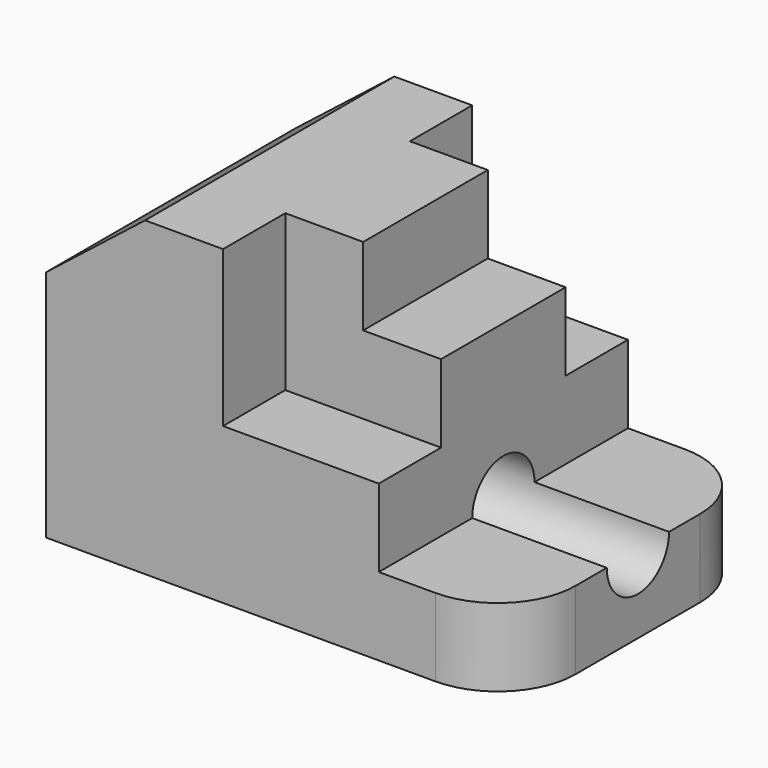
from build123d import *

# Parameters (mm, degrees)
F1_DEPTH = 25.4
F2_R     = 6.35
F3_DEPTH = 54.256924135
F5_DEPTH = 76.201
F7_DEPTH = 12.7
F9_DEPTH = 12.7
F10_R    = 12.7


with BuildPart() as f1:
    # F0 (on Front) → F1 (new body, symmetric)
    with BuildSketch(Plane.XZ):
        Polygon((0, 38.1), (0, 0), (76.2, 0), (76.2, 12.7), (54.255924135, 12.7), (54.255924135, 38.1), (41.555924135, 38.1), (41.555924135, 50.8), (16.155924135, 50.8), align=None)
    extrude(amount=F1_DEPTH, both=True)

    # F2 (on face) → F3 (cut, through all)
    with BuildSketch(Plane.YZ.offset(54.255924135)):
        with Locations((0, 12.7)):
            Circle(F2_R)
    extrude(amount=-F3_DEPTH, mode=Mode.SUBTRACT)

    # F4 (on face) → F5 (cut, through all)
    with BuildSketch(Plane.YZ.offset(76.2)):
        with BuildLine():
            ThreePointArc((-6.35, 12.7), (0, 6.35), (6.35, 12.7))
            Line((6.35, 12.7), (-6.35, 12.7))
        make_face()
    extrude(amount=-F5_DEPTH, mode=Mode.SUBTRACT)

    # F6 (on face) → F7 (cut)
    with BuildSketch(Plane.XZ.offset(25.4)):
        Polygon((41.555924135, 50.8), (28.855924135, 50.8), (28.855924135, 25.4), (54.255924135, 25.4), (54.255924135, 38.1), (41.555924135, 38.1), align=None)
    extrude(amount=-F7_DEPTH, mode=Mode.SUBTRACT)

    # F8 (on face) → F9 (cut)
    with BuildSketch(Plane(origin=(0, 25.4, 0), x_dir=(-1, 0, 0), z_dir=(0, 1, 0))):
        Polygon((-28.855924135, 25.4), (-28.855924135, 50.8), (-41.555924135, 50.8), (-41.555924135, 38.1), (-54.255924135, 38.1), (-54.255924135, 25.4), align=None)
    extrude(amount=-F9_DEPTH, mode=Mode.SUBTRACT)

    # F10
    f10_edges = [f1.edges().sort_by_distance(p)[0] for p in [
        (76.2, 25.4, 6.35),
        (76.2, -25.4, 6.35),
    ]]
    fillet(f10_edges, radius=F10_R)


solid = f1.part
